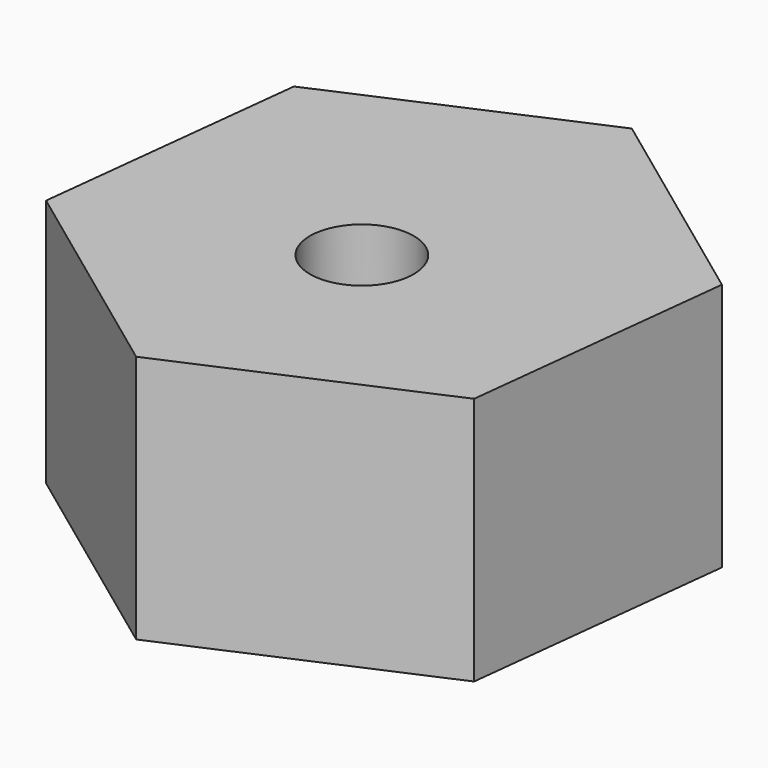
from build123d import *

# Parameters (mm, degrees)
F1_DEPTH = 18.288
F3_D     = 7.62


with BuildPart() as f1:
    # F0 (on Top) → F1 (new body)
    with BuildSketch(Plane.XY):
        Polygon((-16.326535, 1.318186), (-0.170244, -10.602742), (18.231728, -2.571448), (20.477409, 17.380775), (4.321118, 29.301702), (-14.080854, 21.270408), align=None)
    extrude(amount=-F1_DEPTH)

    # F3 (through all)
    with Locations(Plane(origin=(0, 0, -18.288), x_dir=(1, 0, 0), z_dir=(0, 0, -1))):
        with Locations((2.046527, -7.350766)):
            Hole(F3_D / 2)


solid = f1.part
